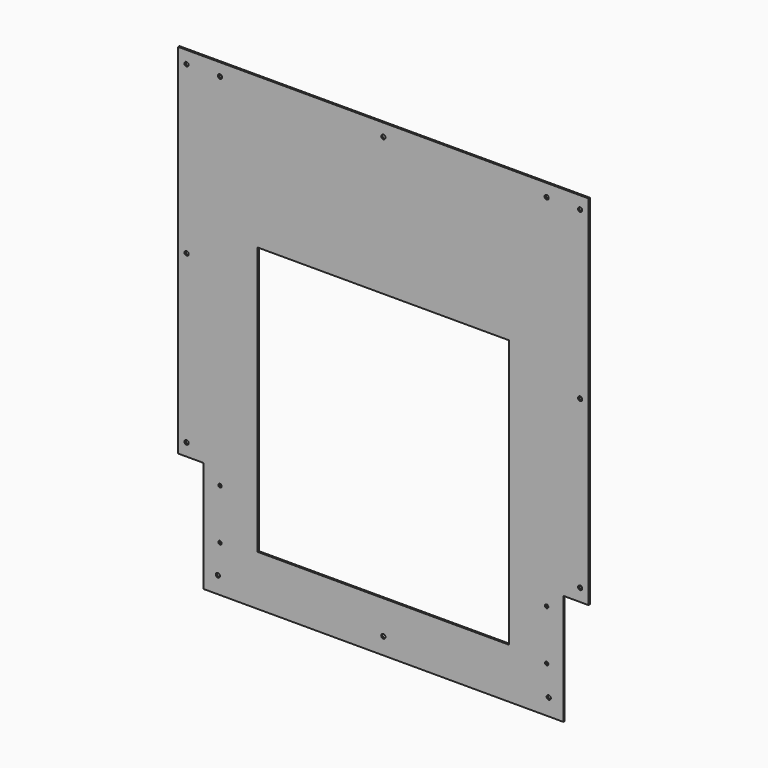
from build123d import *

# Parameters (mm, degrees)
F0_W     = 622.3
F0_H     = 711.2
F0_R     = 3.175
F0_R_2   = 2.579688
F0_W_2   = 381
F0_H_2   = 406.4
F1_DEPTH = 1.27
F2_W     = 38.1
F2_H     = 168.275
F3_DEPTH = 2.541


with BuildPart() as f1:
    # F0 (on Front) → F1 (new body, symmetric)
    with BuildSketch(Plane.XZ):
        Rectangle(F0_W, F0_H)
        with Locations((-250.825, -330.2)):
            Circle(F0_R, mode=Mode.SUBTRACT)
        with Locations((-247.65, -285.75)):
            Circle(F0_R_2, mode=Mode.SUBTRACT)
        with Locations((-247.65, -209.55)):
            Circle(F0_R_2, mode=Mode.SUBTRACT)
        with Locations((-298.45, -168.275)):
            Circle(F0_R, mode=Mode.SUBTRACT)
        with Locations((0, -330.2)):
            Circle(F0_R, mode=Mode.SUBTRACT)
        with Locations((250.825, -330.2)):
            Circle(F0_R, mode=Mode.SUBTRACT)
        with Locations((247.65, -285.75)):
            Circle(F0_R_2, mode=Mode.SUBTRACT)
        with Locations((247.65, -209.55)):
            Circle(F0_R_2, mode=Mode.SUBTRACT)
        with Locations((0, -76.2)):
            Rectangle(F0_W_2, F0_H_2, mode=Mode.SUBTRACT)
        with Locations((298.45, -168.275)):
            Circle(F0_R, mode=Mode.SUBTRACT)
        with Locations((-298.45, 84.1375)):
            Circle(F0_R, mode=Mode.SUBTRACT)
        with Locations((-298.45, 336.55)):
            Circle(F0_R, mode=Mode.SUBTRACT)
        with Locations((-247.65, 336.55)):
            Circle(F0_R, mode=Mode.SUBTRACT)
        with Locations((298.45, 84.1375)):
            Circle(F0_R, mode=Mode.SUBTRACT)
        with Locations((0, 336.55)):
            Circle(F0_R, mode=Mode.SUBTRACT)
        with Locations((247.65, 336.55)):
            Circle(F0_R, mode=Mode.SUBTRACT)
        with Locations((298.45, 336.55)):
            Circle(F0_R, mode=Mode.SUBTRACT)
    extrude(amount=F1_DEPTH, both=True)

    # F2 (on face) → F3 (cut, through all)
    with BuildSketch(Plane(origin=(0, 1.27, 0), x_dir=(-1, 0, 0), z_dir=(0, 1, 0))):
        with Locations((-292.1, -271.4625)):
            Rectangle(F2_W, F2_H)
        with Locations((292.1, -271.4625)):
            Rectangle(F2_W, F2_H)
    extrude(amount=-F3_DEPTH, mode=Mode.SUBTRACT)


solid = f1.part
